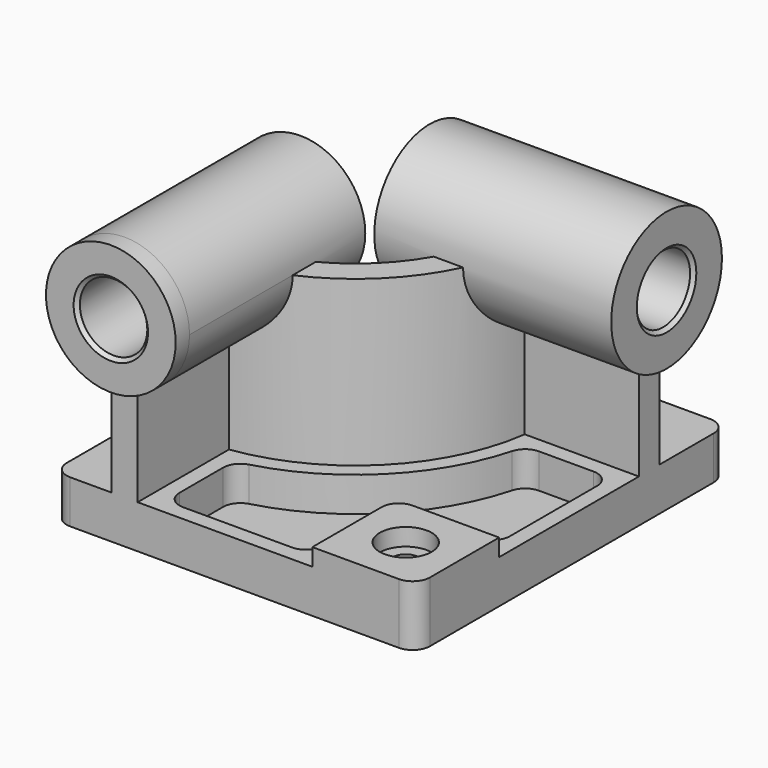
from build123d import *

# Parameters (mm, degrees)
F0_W            = 210
F0_H            = 225
F1_DEPTH        = 25
F3_DEPTH        = 95
F4_R            = 37.5
F5_DEPTH        = 10
F5_DEPTH_BACK   = 127
F6_R            = 40
F7_DEPTH        = 10
F7_DEPTH_BACK   = 127
F8_W            = 60
F8_H            = 60
F9_DEPTH        = 10
F10_R           = 10
F12_DEPTH       = 20
F14_D           = 15
F14_CBORE_D     = 30
F14_CBORE_DEPTH = 10
F15_R           = 10
F16_R           = 19.5
F17_DEPTH       = 235.001
F18_R           = 19.5
F19_DEPTH       = 220.001
F20_SIZE        = 2
F21_R           = 10


with BuildPart() as f1:
    # F0 (on Top) → F1 (new body)
    with BuildSketch(Plane.XY):
        Rectangle(F0_W, F0_H)
    extrude(amount=F1_DEPTH)

    # F2 (on face) → F3 (join)
    with BuildSketch(Plane.XY.offset(25)):
        with BuildLine():
            Line((-71, -32.5), (-71, -112.5))
            Line((-71, -112.5), (-56, -112.5))
            Line((-56, -112.5), (-56, -46.481817))
            ThreePointArc((-56, -46.481817), (7.488853, -14.988853), (38.981817, 48.5))
            Line((38.981817, 48.5), (105, 48.5))
            Line((105, 48.5), (105, 63.5))
            Line((105, 63.5), (25, 63.5))
            ThreePointArc((25, 63.5), (-3.117749, -4.382251), (-71, -32.5))
        make_face()
    extrude(amount=F3_DEPTH)

    # F4 (on face) → F5 (join, two sides)
    with BuildSketch(Plane.XZ.offset(112.5)) as f5_sk:
        with Locations((-63.5, 120)):
            Circle(F4_R)
    extrude(amount=F5_DEPTH)
    extrude(f5_sk.sketch, amount=-F5_DEPTH_BACK)

    # F6 (on face) → F7 (join, two sides)
    with BuildSketch(Plane.YZ.offset(105)) as f7_sk:
        with Locations((56, 120)):
            Circle(F6_R)
    extrude(amount=F7_DEPTH)
    extrude(f7_sk.sketch, amount=-F7_DEPTH_BACK)

    # F8 (on face) → F9 (join)
    with BuildSketch(Plane.XY.offset(25)):
        with Locations((75, -82.5)):
            Rectangle(F8_W, F8_H)
    extrude(amount=F9_DEPTH)

    # F10
    f10_edges = [f1.edges().sort_by_distance(p)[0] for p in [
        (45, -52.5, 30),
    ]]
    fillet(f10_edges, radius=F10_R)

    # F11 (on face) → F12 (cut)
    with BuildSketch(Plane.XY.offset(25)):
        with BuildLine():
            ThreePointArc((46.575508, 39.5), (13.852814, -21.352814), (-47, -54.075508))
            Line((-47, -54.075508), (-47, -103.5))
            Line((-47, -103.5), (36, -103.5))
            Line((36, -103.5), (36, -62.5))
            ThreePointArc((36, -62.5), (41.564971, -49.064971), (55, -43.5))
            Line((55, -43.5), (96, -43.5))
            Line((96, -43.5), (96, 39.5))
            Line((96, 39.5), (46.575508, 39.5))
        make_face()
    extrude(amount=-F12_DEPTH, mode=Mode.SUBTRACT)

    # F14 (through all)
    with Locations(Plane.XY.offset(35)):
        with Locations((75, -82.5)):
            CounterBoreHole(F14_D / 2, F14_CBORE_D / 2, F14_CBORE_DEPTH)

    # F15
    f15_edges = [f1.edges().sort_by_distance(p)[0] for p in [
        (-47, -54.075508, 15),
        (46.575508, 39.5, 15),
        (-47, -103.5, 15),
        (96, 39.5, 15),
        (96, -43.5, 15),
        (36, -103.5, 15),
    ]]
    fillet(f15_edges, radius=F15_R)

    # F16 (on face) → F17 (cut, through all)
    with BuildSketch(Plane.XZ.offset(122.5)):
        with Locations((-63.5, 120)):
            Circle(F16_R)
    extrude(amount=-F17_DEPTH, mode=Mode.SUBTRACT)

    # F18 (on face) → F19 (cut, through all)
    with BuildSketch(Plane.YZ.offset(115)):
        with Locations((56, 120)):
            Circle(F18_R)
    extrude(amount=-F19_DEPTH, mode=Mode.SUBTRACT)

    # F20
    f20_edges = [f1.edges().sort_by_distance(p)[0] for p in [
        (-83, -122.5, 120),
        (115, 36.5, 120),
        (-22, 36.5, 120),
        (-83, 14.5, 120),
    ]]
    chamfer(f20_edges, length=F20_SIZE)

    # F21
    f21_edges = [f1.edges().sort_by_distance(p)[0] for p in [
        (-105, -112.5, 12.5),
        (105, -112.5, 17.5),
        (105, 112.5, 12.5),
        (-105, 112.5, 12.5),
    ]]
    fillet(f21_edges, radius=F21_R)


solid = f1.part
